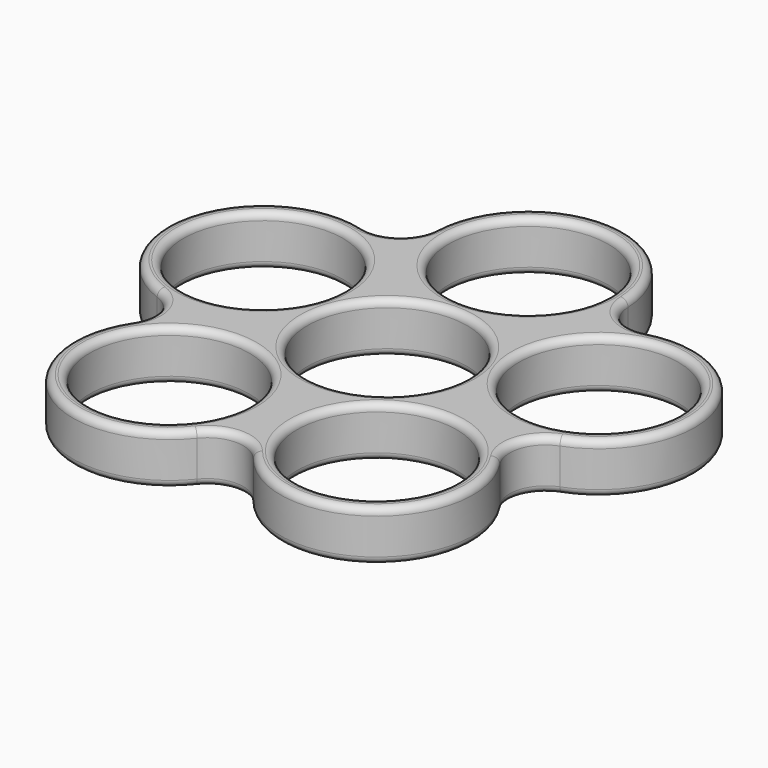
from build123d import *

# Parameters (mm, degrees)
F0_R     = 11.125
F1_DEPTH = 7
F2_R     = 1


with BuildPart() as f1:
    # F0 (on Top) → F1 (new body)
    with BuildSketch(Plane.XY):
        with BuildLine():
            ThreePointArc((19.748832, 20.519792), (15.469271, 21.291624), (13.412757, 25.12322))
            ThreePointArc((13.412757, 25.12322), (0, 37.975), (-13.412757, 25.12322))
            ThreePointArc((-13.412757, 25.12322), (-15.469271, 21.291624), (-19.748832, 20.519792))
            ThreePointArc((-19.748832, 20.519792), (-36.116371, 11.73492), (-28.038372, -4.992788))
            ThreePointArc((-28.038372, -4.992788), (-25.029806, -8.132677), (-25.618206, -12.441291))
            ThreePointArc((-25.618206, -12.441291), (-22.321145, -30.72242), (-3.91591, -28.208932))
            ThreePointArc((-3.91591, -28.208932), (0, -26.317895), (3.91591, -28.208932))
            ThreePointArc((3.91591, -28.208932), (22.321145, -30.72242), (25.618206, -12.441291))
            ThreePointArc((25.618206, -12.441291), (25.029806, -8.132677), (28.038372, -4.992788))
            ThreePointArc((28.038372, -4.992788), (36.116371, 11.73492), (19.748832, 20.519792))
        make_face()
        with Locations((-14.430128, -19.861367)):
            Circle(F0_R, mode=Mode.SUBTRACT)
        with Locations((14.430128, -19.861367)):
            Circle(F0_R, mode=Mode.SUBTRACT)
        Circle(F0_R, mode=Mode.SUBTRACT)
        with Locations((-23.348437, 7.586367)):
            Circle(F0_R, mode=Mode.SUBTRACT)
        with Locations((23.348437, 7.586367)):
            Circle(F0_R, mode=Mode.SUBTRACT)
        with Locations((0, 24.55)):
            Circle(F0_R, mode=Mode.SUBTRACT)
    extrude(amount=F1_DEPTH)

    # F2
    f2_edges = [f1.edges().sort_by_distance(p)[0] for p in [
        (-36.116371, 11.73492, 7),
        (-22.321145, -30.72242, 0),
        (-25.555128, -19.861367, 7),
        (-34.473437, 7.586367, 7),
        (-11.125, 24.55, 0),
        (-11.125, 24.55, 7),
        (-34.473437, 7.586367, 0),
        (-25.555128, -19.861367, 0),
        (-11.125, 0, 0),
        (-11.125, 0, 7),
        (12.223437, 7.586367, 0),
        (12.223437, 7.586367, 7),
        (3.305128, -19.861367, 0),
        (3.305128, -19.861367, 7),
    ]]
    fillet(f2_edges, radius=F2_R)


solid = f1.part
